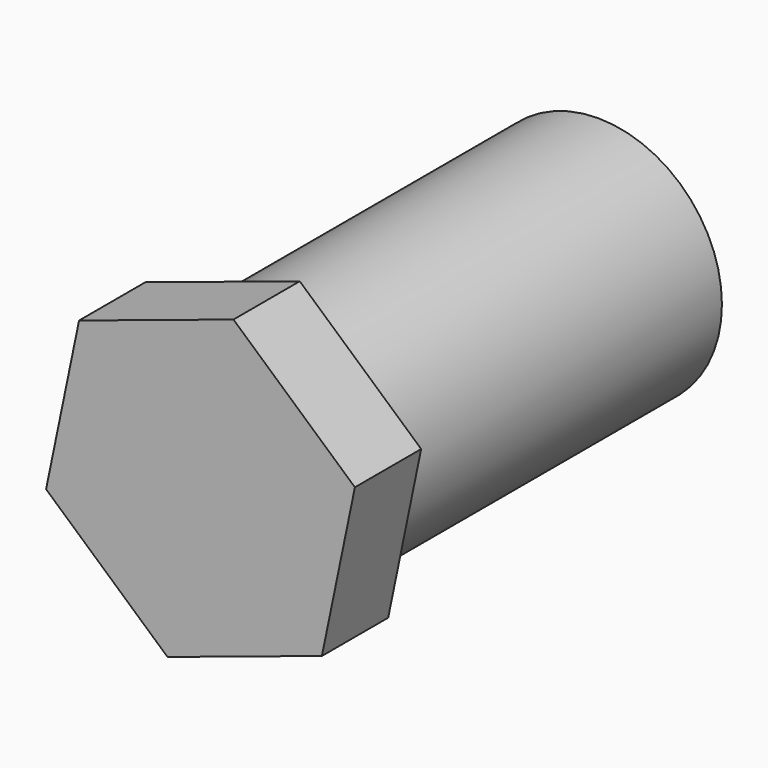
from build123d import *

# Parameters (mm, degrees)
F1_DEPTH = 5
F2_R     = 7.46933
F3_DEPTH = 25


with BuildPart() as f1:
    # F0 (on Front) → F1 (new body)
    with BuildSketch(Plane.XZ):
        Polygon((9.318711, 3.08139), (1.990793, 9.610935), (-7.327917, 6.529545), (-9.318711, -3.08139), (-1.990793, -9.610935), (7.327917, -6.529545), align=None)
    extrude(amount=F1_DEPTH)

    # F2 (on face) → F3 (join)
    with BuildSketch(Plane(origin=(0, 0, 0), x_dir=(-1, 0, 0), z_dir=(0, 1, 0))):
        Circle(F2_R)
    extrude(amount=F3_DEPTH)


solid = f1.part
